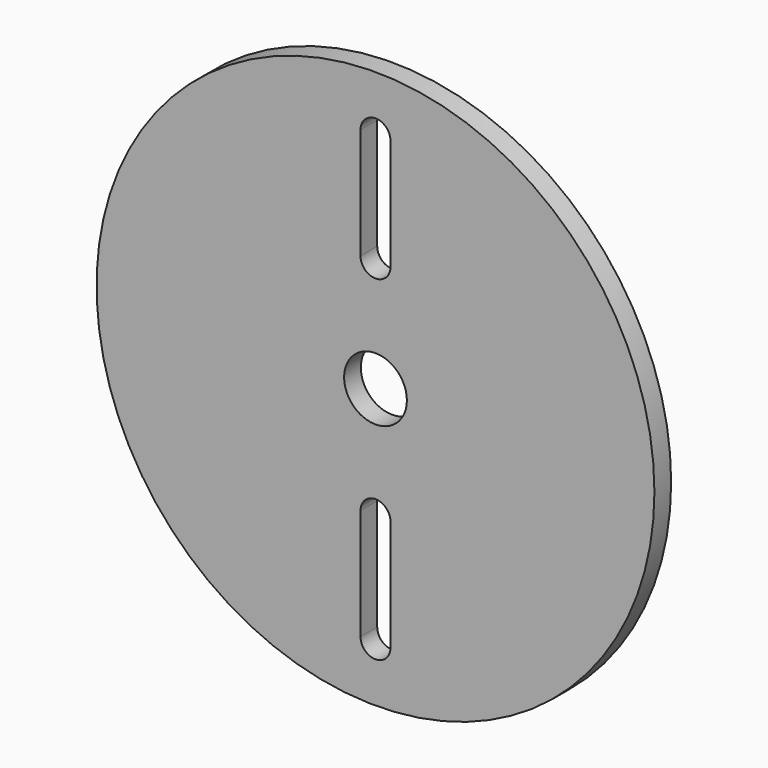
from build123d import *

# Parameters (mm, degrees)
F0_R     = 40
F0_R_2   = 4.5
F1_DEPTH = 3


with BuildPart() as f1:
    # F0 (on Front) → F1 (new body)
    with BuildSketch(Plane.XZ):
        Circle(F0_R)
        with BuildLine():
            ThreePointArc((2.15, -32), (0, -34.15), (-2.15, -32))
            Line((-2.15, -32), (-2.15, -16.076185))
            ThreePointArc((-2.15, -16.076185), (0, -13.926185), (2.15, -16.076185))
            Line((2.15, -16.076185), (2.15, -32))
        make_face(mode=Mode.SUBTRACT)
        Circle(F0_R_2, mode=Mode.SUBTRACT)
        with BuildLine():
            Line((-2.15, 16.076185), (-2.15, 32))
            ThreePointArc((-2.15, 32), (0, 34.15), (2.15, 32))
            Line((2.15, 32), (2.15, 16.076185))
            ThreePointArc((2.15, 16.076185), (0, 13.926185), (-2.15, 16.076185))
        make_face(mode=Mode.SUBTRACT)
    extrude(amount=F1_DEPTH)


solid = f1.part
